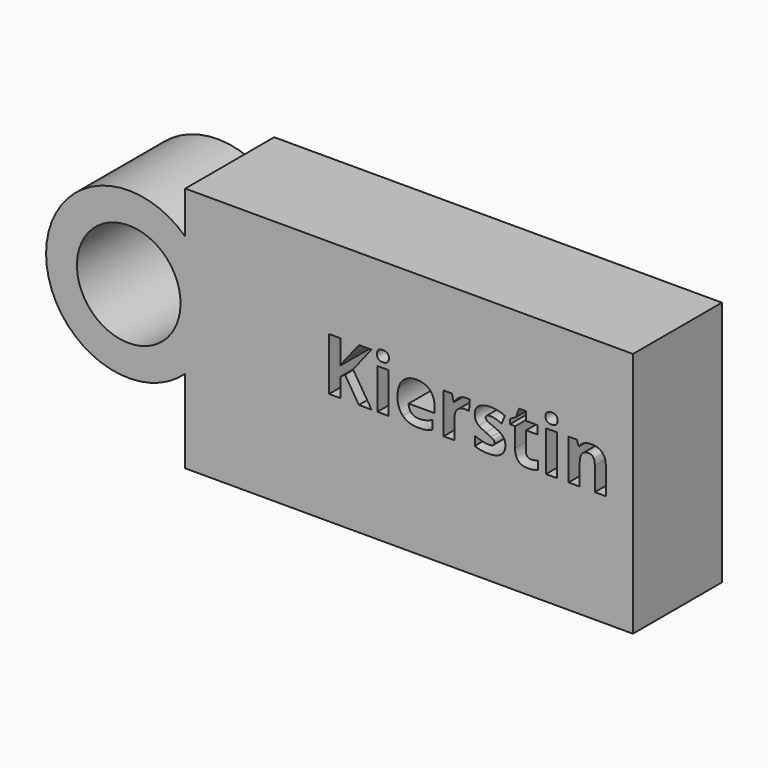
from build123d import *

# Parameters (mm, degrees)
F0_W     = 2.5154180298
F0_H     = 9.222319618
F0_R     = 11.8373458922
F1_DEPTH = 25.4


with BuildPart() as f1:
    # F0 (on Front) → F1 (new body)
    with BuildSketch(Plane.XZ):
        Polygon((43.8149981201, 30.6265391409), (-58.4688484669, 30.6265391409), (-58.4688484669, 20.9550019354), (-58.4688484669, -6.5942308865), (-58.4688484669, -25.6442315876), (43.8149981201, -25.6442315876), align=None)
        with Locations((-13.3231784186, 4.611159809)):
            Rectangle(F0_W, F0_H, mode=Mode.SUBTRACT)
        Polygon((-20.1396181478, 6.7227384279), (-15.9006240703, 0), (-18.8040446713, 0), (-21.9634941798, 5.0809860517), (-23.0430387488, 4.3049809093), (-23.0430387488, 0), (-25.6006883509, 0), (-25.6006883509, 12.0597533872), (-23.0430387488, 12.0597533872), (-23.0430387488, 6.540614772), (-22.0373994315, 7.9606513933), (-18.7697315188, 12.0597533872), (-15.9322977496, 12.0597533872), align=None, mode=Mode.SUBTRACT)
        with BuildLine():
            add(Edge.make_bspline(
                [(-3.4211944326, -0.0052789465), (-4.1708048423, -0.1662868162), (-5.2529888845, -0.1662868162)],
                knots=[0, 0, 0, 1, 1, 1], degree=2))
            add(Edge.make_bspline(
                [(-5.2529888845, -0.1662868162), (-7.4780648542, -0.1662868162), (-8.7318146592, 1.0637077293)],
                knots=[0, 0, 0, 1, 1, 1], degree=2))
            add(Edge.make_bspline(
                [(-8.7318146592, 1.0637077293), (-9.9855644641, 2.2937022748), (-9.9855644641, 4.5451729772)],
                knots=[0, 0, 0, 1, 1, 1], degree=2))
            add(Edge.make_bspline(
                [(-9.9855644641, 4.5451729772), (-9.9855644641, 6.8626305114), (-8.826835697, 8.1282579461)],
                knots=[0, 0, 0, 1, 1, 1], degree=2))
            add(Edge.make_bspline(
                [(-8.826835697, 8.1282579461), (-7.6681069299, 9.3938853808), (-5.6225151428, 9.3938853808)],
                knots=[0, 0, 0, 1, 1, 1], degree=2))
            add(Edge.make_bspline(
                [(-5.6225151428, 9.3938853808), (-3.6693049203, 9.3938853808), (-2.580522195, 8.281347396)],
                knots=[0, 0, 0, 1, 1, 1], degree=2))
            add(Edge.make_bspline(
                [(-2.580522195, 8.281347396), (-1.4917394696, 7.1688094112), (-1.4917394696, 5.2050412956)],
                knots=[0, 0, 0, 1, 1, 1], degree=2))
            Line((-1.4917394696, 5.2050412956), (-1.4917394696, 3.9829651699))
            Line((-1.4917394696, 3.9829651699), (-7.4384727551, 3.9829651699))
            add(Edge.make_bspline(
                [(-7.4384727551, 3.9829651699), (-7.3962411827, 2.9113390208), (-6.8023596961, 2.3095391144)],
                knots=[0, 0, 0, 1, 1, 1], degree=2))
            add(Edge.make_bspline(
                [(-6.8023596961, 2.3095391144), (-6.2084782096, 1.707739208), (-5.1368520605, 1.707739208)],
                knots=[0, 0, 0, 1, 1, 1], degree=2))
            add(Edge.make_bspline(
                [(-5.1368520605, 1.707739208), (-4.302778506, 1.707739208), (-3.5610865161, 1.8806247075)],
                knots=[0, 0, 0, 1, 1, 1], degree=2))
            add(Edge.make_bspline(
                [(-3.5610865161, 1.8806247075), (-2.8193945262, 2.0535102069), (-2.0117157045, 2.4335943583)],
                knots=[0, 0, 0, 1, 1, 1], degree=2))
            Line((-2.0117157045, 2.4335943583), (-2.0117157045, 0.4856630823))
            add(Edge.make_bspline(
                [(-2.0117157045, 0.4856630823), (-2.6715840229, 0.1557289231), (-3.4211944326, -0.0052789465)],
                knots=[0, 0, 0, 1, 1, 1], degree=2))
        make_face(mode=Mode.SUBTRACT)
        with BuildLine():
            add(Edge.make_bspline(
                [(4.1131820269, 8.9200999282), (4.8429963871, 9.3938853808), (5.700825201, 9.3938853808)],
                knots=[0, 0, 0, 1, 1, 1], degree=2))
            add(Edge.make_bspline(
                [(5.700825201, 9.3938853808), (6.2128830161, 9.3938853808), (6.5507355951, 9.3199801292)],
                knots=[0, 0, 0, 1, 1, 1], degree=2))
            Line((6.5507355951, 9.3199801292), (6.3606935194, 6.9629304958))
            add(Edge.make_bspline(
                [(6.3606935194, 6.9629304958), (6.0545146197, 7.0447541673), (5.6190015295, 7.0447541673)],
                knots=[0, 0, 0, 1, 1, 1], degree=2))
            add(Edge.make_bspline(
                [(5.6190015295, 7.0447541673), (4.4154017168, 7.0447541673), (3.742336032, 6.4257976846)],
                knots=[0, 0, 0, 1, 1, 1], degree=2))
            add(Edge.make_bspline(
                [(3.742336032, 6.4257976846), (3.0692703472, 5.806841202), (3.0692703472, 4.6929834805)],
                knots=[0, 0, 0, 1, 1, 1], degree=2))
            Line((3.0692703472, 4.6929834805), (3.0692703472, 0))
            Line((3.0692703472, 0), (0.5538523175, 0))
            Line((0.5538523175, 0), (0.5538523175, 9.222319618))
            Line((0.5538523175, 9.222319618), (2.459552021, 9.222319618))
            Line((2.459552021, 9.222319618), (2.8317177526, 7.6703093332))
            Line((2.8317177526, 7.6703093332), (2.9531335232, 7.6703093332))
            add(Edge.make_bspline(
                [(2.9531335232, 7.6703093332), (3.3833676668, 8.4463144756), (4.1131820269, 8.9200999282)],
                knots=[0, 0, 0, 1, 1, 1], degree=2))
        make_face(mode=Mode.SUBTRACT)
        with BuildLine():
            add(Edge.make_bspline(
                [(-13.3192192087, 10.3678510188), (-14.6891058377, 10.3678510188), (-14.6891058377, 11.6057639841)],
                knots=[0, 0, 0, 1, 1, 1], degree=2))
            add(Edge.make_bspline(
                [(-14.6891058377, 11.6057639841), (-14.6891058377, 12.8357585296), (-13.3192192087, 12.8357585296)],
                knots=[0, 0, 0, 1, 1, 1], degree=2))
            add(Edge.make_bspline(
                [(-13.3192192087, 12.8357585296), (-11.9493325797, 12.8357585296), (-11.9493325797, 11.6057639841)],
                knots=[0, 0, 0, 1, 1, 1], degree=2))
            add(Edge.make_bspline(
                [(-11.9493325797, 11.6057639841), (-11.9493325797, 11.0198009174), (-12.2911443686, 10.6938259681)],
                knots=[0, 0, 0, 1, 1, 1], degree=2))
            add(Edge.make_bspline(
                [(-12.2911443686, 10.6938259681), (-12.6329561576, 10.3678510188), (-13.3192192087, 10.3678510188)],
                knots=[0, 0, 0, 1, 1, 1], degree=2))
        make_face(mode=Mode.SUBTRACT)
        with BuildLine():
            add(Edge.make_bspline(
                [(14.4190054238, 3.9182980747), (14.6591974917, 3.4233968359), (14.6591974917, 2.739773258)],
                knots=[0, 0, 0, 1, 1, 1], degree=2))
            add(Edge.make_bspline(
                [(14.6591974917, 2.739773258), (14.6591974917, 1.3197366368), (13.673354224, 0.5767249103)],
                knots=[0, 0, 0, 1, 1, 1], degree=2))
            add(Edge.make_bspline(
                [(13.673354224, 0.5767249103), (12.6875109563, -0.1662868162), (10.7237428407, -0.1662868162)],
                knots=[0, 0, 0, 1, 1, 1], degree=2))
            add(Edge.make_bspline(
                [(10.7237428407, -0.1662868162), (9.7181035235, -0.1662868162), (9.0080852129, -0.029034206)],
                knots=[0, 0, 0, 1, 1, 1], degree=2))
            add(Edge.make_bspline(
                [(9.0080852129, -0.029034206), (8.2980669023, 0.1082184042), (7.6804301562, 0.3721657316)],
                knots=[0, 0, 0, 1, 1, 1], degree=2))
            Line((7.6804301562, 0.3721657316), (7.6804301562, 2.4494311979))
            add(Edge.make_bspline(
                [(7.6804301562, 2.4494311979), (8.3798905738, 2.1194970387), (9.2588351739, 1.8964615471)],
                knots=[0, 0, 0, 1, 1, 1], degree=2))
            add(Edge.make_bspline(
                [(9.2588351739, 1.8964615471), (10.137779774, 1.6734260555), (10.8055665122, 1.6734260555)],
                knots=[0, 0, 0, 1, 1, 1], degree=2))
            add(Edge.make_bspline(
                [(10.8055665122, 1.6734260555), (12.1754531412, 1.6734260555), (12.1754531412, 2.4652680376)],
                knots=[0, 0, 0, 1, 1, 1], degree=2))
            add(Edge.make_bspline(
                [(12.1754531412, 2.4652680376), (12.1754531412, 2.7635285175), (11.9933294853, 2.9496113833)],
                knots=[0, 0, 0, 1, 1, 1], degree=2))
            add(Edge.make_bspline(
                [(11.9933294853, 2.9496113833), (11.8112058295, 3.1356942491), (11.3664545829, 3.3706073704)],
                knots=[0, 0, 0, 1, 1, 1], degree=2))
            add(Edge.make_bspline(
                [(11.3664545829, 3.3706073704), (10.9217033363, 3.6055204918), (10.1800113464, 3.9169783381)],
                knots=[0, 0, 0, 1, 1, 1], degree=2))
            add(Edge.make_bspline(
                [(10.1800113464, 3.9169783381), (9.1163036171, 4.3630493213), (8.6161234317, 4.7431334727)],
                knots=[0, 0, 0, 1, 1, 1], degree=2))
            add(Edge.make_bspline(
                [(8.6161234317, 4.7431334727), (8.1159432464, 5.1232176241), (7.8902682815, 5.614159653)],
                knots=[0, 0, 0, 1, 1, 1], degree=2))
            add(Edge.make_bspline(
                [(7.8902682815, 5.614159653), (7.6645933166, 6.1051016819), (7.6645933166, 6.820398939)],
                knots=[0, 0, 0, 1, 1, 1], degree=2))
            add(Edge.make_bspline(
                [(7.6645933166, 6.820398939), (7.6645933166, 8.0503934846), (8.6161234317, 8.7221394327)],
                knots=[0, 0, 0, 1, 1, 1], degree=2))
            add(Edge.make_bspline(
                [(8.6161234317, 8.7221394327), (9.5676535469, 9.3938853808), (11.3176243273, 9.3938853808)],
                knots=[0, 0, 0, 1, 1, 1], degree=2))
            add(Edge.make_bspline(
                [(11.3176243273, 9.3938853808), (12.983131963, 9.3938853808), (14.5588975073, 8.6680302306)],
                knots=[0, 0, 0, 1, 1, 1], degree=2))
            Line((14.5588975073, 8.6680302306), (13.8013686778, 6.8547120916))
            add(Edge.make_bspline(
                [(13.8013686778, 6.8547120916), (13.1071872068, 7.1503330983), (12.5053873004, 7.340375174)],
                knots=[0, 0, 0, 1, 1, 1], degree=2))
            add(Edge.make_bspline(
                [(12.5053873004, 7.340375174), (11.903587394, 7.5304172497), (11.2753927549, 7.5304172497)],
                knots=[0, 0, 0, 1, 1, 1], degree=2))
            add(Edge.make_bspline(
                [(11.2753927549, 7.5304172497), (10.1615350335, 7.5304172497), (10.1615350335, 6.9286173433)],
                knots=[0, 0, 0, 1, 1, 1], degree=2))
            add(Edge.make_bspline(
                [(10.1615350335, 6.9286173433), (10.1615350335, 6.5907647642), (10.5205033987, 6.3426542765)],
                knots=[0, 0, 0, 1, 1, 1], degree=2))
            add(Edge.make_bspline(
                [(10.5205033987, 6.3426542765), (10.8794717639, 6.0945437888), (12.0936294697, 5.6088807065)],
                knots=[0, 0, 0, 1, 1, 1], degree=2))
            add(Edge.make_bspline(
                [(12.0936294697, 5.6088807065), (13.1731740387, 5.170728143), (13.6759936973, 4.7919637283)],
                knots=[0, 0, 0, 1, 1, 1], degree=2))
            add(Edge.make_bspline(
                [(13.6759936973, 4.7919637283), (14.1788133559, 4.4131993135), (14.4190054238, 3.9182980747)],
                knots=[0, 0, 0, 1, 1, 1], degree=2))
        make_face(mode=Mode.SUBTRACT)
        with BuildLine():
            add(Edge.make_bspline(
                [(19.7085098642, 2.0957417793), (20.0094098173, 1.8397128717), (20.5056307928, 1.8397128717)],
                knots=[0, 0, 0, 1, 1, 1], degree=2))
            add(Edge.make_bspline(
                [(20.5056307928, 1.8397128717), (21.1654991112, 1.8397128717), (22.089314757, 2.1274154585)],
                knots=[0, 0, 0, 1, 1, 1], degree=2))
            Line((22.089314757, 2.1274154585), (22.089314757, 0.2560289075))
            add(Edge.make_bspline(
                [(22.089314757, 0.2560289075), (21.1496622716, -0.1662868162), (19.7797756425, -0.1662868162)],
                knots=[0, 0, 0, 1, 1, 1], degree=2))
            add(Edge.make_bspline(
                [(19.7797756425, -0.1662868162), (18.26999693, -0.1662868162), (17.5810944056, 0.5978406965)],
                knots=[0, 0, 0, 1, 1, 1], degree=2))
            add(Edge.make_bspline(
                [(17.5810944056, 0.5978406965), (16.8921918812, 1.3619682092), (16.8921918812, 2.8875837613)],
                knots=[0, 0, 0, 1, 1, 1], degree=2))
            Line((16.8921918812, 2.8875837613), (16.8921918812, 7.3324567541))
            Line((16.8921918812, 7.3324567541), (15.6885920684, 7.3324567541))
            Line((15.6885920684, 7.3324567541), (15.6885920684, 8.3961644834))
            Line((15.6885920684, 8.3961644834), (17.0743155371, 9.2381564577))
            Line((17.0743155371, 9.2381564577), (17.8001706873, 11.1860877336))
            Line((17.8001706873, 11.1860877336), (19.407609911, 11.1860877336))
            Line((19.407609911, 11.1860877336), (19.407609911, 9.222319618))
            Line((19.407609911, 9.222319618), (21.9890147726, 9.222319618))
            Line((21.9890147726, 9.222319618), (21.9890147726, 7.3324567541))
            Line((21.9890147726, 7.3324567541), (19.407609911, 7.3324567541))
            Line((19.407609911, 7.3324567541), (19.407609911, 2.8875837613))
            add(Edge.make_bspline(
                [(19.407609911, 2.8875837613), (19.407609911, 2.3517706868), (19.7085098642, 2.0957417793)],
                knots=[0, 0, 0, 1, 1, 1], degree=2))
        make_face(mode=Mode.SUBTRACT)
        with Locations((25.210491903, 4.611159809)):
            Rectangle(F0_W, F0_H, mode=Mode.SUBTRACT)
        with BuildLine():
            Line((37.619975499, 6.0127201173), (37.619975499, 0))
            Line((37.619975499, 0), (35.1045574692, 0))
            Line((35.1045574692, 0), (35.1045574692, 5.3871649515))
            add(Edge.make_bspline(
                [(35.1045574692, 5.3871649515), (35.1045574692, 6.3848858489), (34.7495483139, 6.8837462976)],
                knots=[0, 0, 0, 1, 1, 1], degree=2))
            add(Edge.make_bspline(
                [(34.7495483139, 6.8837462976), (34.3945391586, 7.3826067463), (33.6185340162, 7.3826067463)],
                knots=[0, 0, 0, 1, 1, 1], degree=2))
            add(Edge.make_bspline(
                [(33.6185340162, 7.3826067463), (32.5627447067, 7.3826067463), (32.092918464, 6.6778673823)],
                knots=[0, 0, 0, 1, 1, 1], degree=2))
            add(Edge.make_bspline(
                [(32.092918464, 6.6778673823), (31.6230922213, 5.9731280182), (31.6230922213, 4.3392940618)],
                knots=[0, 0, 0, 1, 1, 1], degree=2))
            Line((31.6230922213, 4.3392940618), (31.6230922213, 0))
            Line((31.6230922213, 0), (29.1076741915, 0))
            Line((29.1076741915, 0), (29.1076741915, 9.222319618))
            Line((29.1076741915, 9.222319618), (31.0292107347, 9.222319618))
            Line((31.0292107347, 9.222319618), (31.3670633138, 8.0424750647))
            Line((31.3670633138, 8.0424750647), (31.5069553973, 8.0424750647))
            add(Edge.make_bspline(
                [(31.5069553973, 8.0424750647), (31.929271121, 8.710261803), (32.667003901, 9.0520735919)],
                knots=[0, 0, 0, 1, 1, 1], degree=2))
            add(Edge.make_bspline(
                [(32.667003901, 9.0520735919), (33.404736681, 9.3938853808), (34.3443891664, 9.3938853808)],
                knots=[0, 0, 0, 1, 1, 1], degree=2))
            add(Edge.make_bspline(
                [(34.3443891664, 9.3938853808), (35.9544678633, 9.3938853808), (36.7872216812, 8.5241789372)],
                knots=[0, 0, 0, 1, 1, 1], degree=2))
            add(Edge.make_bspline(
                [(36.7872216812, 8.5241789372), (37.619975499, 7.6544724935), (37.619975499, 6.0127201173)],
                knots=[0, 0, 0, 1, 1, 1], degree=2))
        make_face(mode=Mode.SUBTRACT)
        with BuildLine():
            add(Edge.make_bspline(
                [(25.2144511129, 10.3678510188), (23.8445644839, 10.3678510188), (23.8445644839, 11.6057639841)],
                knots=[0, 0, 0, 1, 1, 1], degree=2))
            add(Edge.make_bspline(
                [(23.8445644839, 11.6057639841), (23.8445644839, 12.8357585296), (25.2144511129, 12.8357585296)],
                knots=[0, 0, 0, 1, 1, 1], degree=2))
            add(Edge.make_bspline(
                [(25.2144511129, 12.8357585296), (26.584337742, 12.8357585296), (26.584337742, 11.6057639841)],
                knots=[0, 0, 0, 1, 1, 1], degree=2))
            add(Edge.make_bspline(
                [(26.584337742, 11.6057639841), (26.584337742, 11.0198009174), (26.242525953, 10.6938259681)],
                knots=[0, 0, 0, 1, 1, 1], degree=2))
            add(Edge.make_bspline(
                [(26.242525953, 10.6938259681), (25.9007141641, 10.3678510188), (25.2144511129, 10.3678510188)],
                knots=[0, 0, 0, 1, 1, 1], degree=2))
        make_face(mode=Mode.SUBTRACT)
        with BuildLine():
            Line((-58.4688484669, -6.5942308865), (-58.4688484669, 20.9550019354))
            ThreePointArc((-58.4688484669, 20.9550019354), (-90.2617590938, 7.1803855244), (-58.4688484669, -6.5942308865))
        make_face()
        with Locations((-71.3813043049, 7.1803855244)):
            Circle(F0_R, mode=Mode.SUBTRACT)
    extrude(amount=F1_DEPTH)


solid = f1.part
